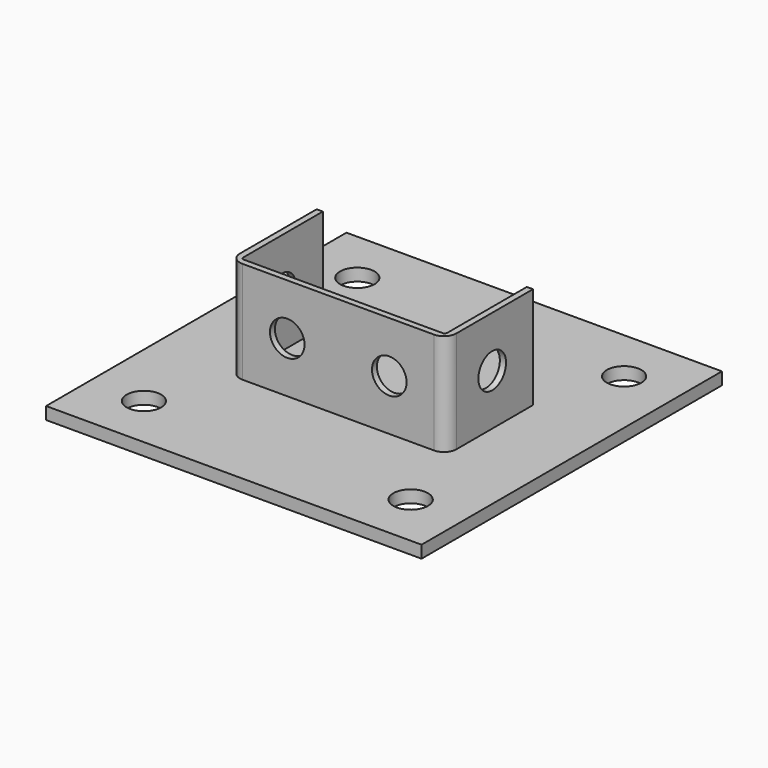
from build123d import *

# Parameters (mm, degrees)
F0_W     = 152
F0_H     = 152
F0_R     = 7
F1_DEPTH = 5
F3_DEPTH = 41.3
F4_R     = 5
F5_R     = 1
F7_D     = 14
F9_D     = 14


with BuildPart() as f1:
    # F0 (on Top) → F1 (new body)
    with BuildSketch(Plane.XY):
        Rectangle(F0_W, F0_H)
        with Locations((-54, -54)):
            Circle(F0_R, mode=Mode.SUBTRACT)
        with Locations((54, -54)):
            Circle(F0_R, mode=Mode.SUBTRACT)
        with Locations((-54, 54)):
            Circle(F0_R, mode=Mode.SUBTRACT)
        with Locations((54, 54)):
            Circle(F0_R, mode=Mode.SUBTRACT)
    extrude(amount=-F1_DEPTH)

    # F2 (on face) → F3 (join)
    with BuildSketch(Plane.XY):
        Polygon((-41.3, 20.65), (-43.8, 20.65), (-43.8, -23.15), (43.8, -23.15), (43.8, 20.65), (41.3, 20.65), (41.3, -20.65), (-41.3, -20.65), align=None)
    extrude(amount=F3_DEPTH)

    # F4
    f4_edges = [f1.edges().sort_by_distance(p)[0] for p in [
        (43.8, -23.15, 20.65),
        (-43.8, -23.15, 20.65),
    ]]
    fillet(f4_edges, radius=F4_R)

    # F5
    f5_edges = [f1.edges().sort_by_distance(p)[0] for p in [
        (41.3, -20.65, 20.65),
        (-41.3, -20.65, 20.65),
    ]]
    fillet(f5_edges, radius=F5_R)

    # F7 (through all)
    with Locations(Plane.YZ.offset(43.8)):
        with Locations((0, 20.65)):
            Hole(F7_D / 2)

    # F9 (through all)
    with Locations(Plane.XZ.offset(23.15)):
        with Locations((-20.65, 20.65), (20.65, 20.65)):
            Hole(F9_D / 2)


solid = f1.part
